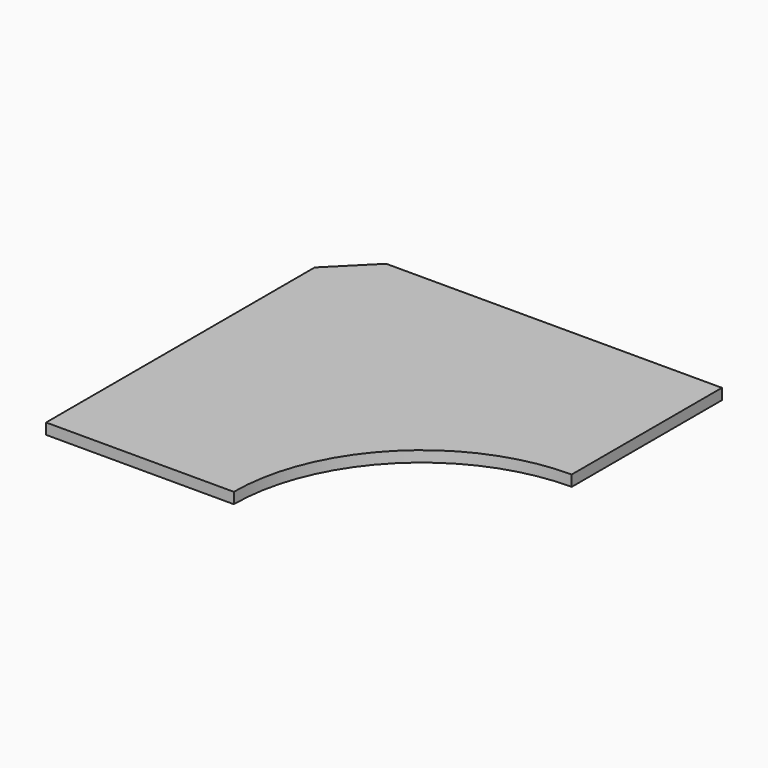
from build123d import *

# Parameters (mm, degrees)
F1_DEPTH = 34.925


with BuildPart() as f1:
    # F0 (on Top) → F1 (new body)
    with BuildSketch(Plane.XY):
        with BuildLine():
            Line((1200.15, 0), (127, 0))
            Line((127, 0), (0, -127))
            Line((0, -127), (0, -1200.15))
            Line((0, -1200.15), (600.075, -1200.15))
            ThreePointArc((600.075, -1200.15), (775.832898, -775.832898), (1200.15, -600.075))
            Line((1200.15, -600.075), (1200.15, 0))
        make_face()
    extrude(amount=-F1_DEPTH)


solid = f1.part
